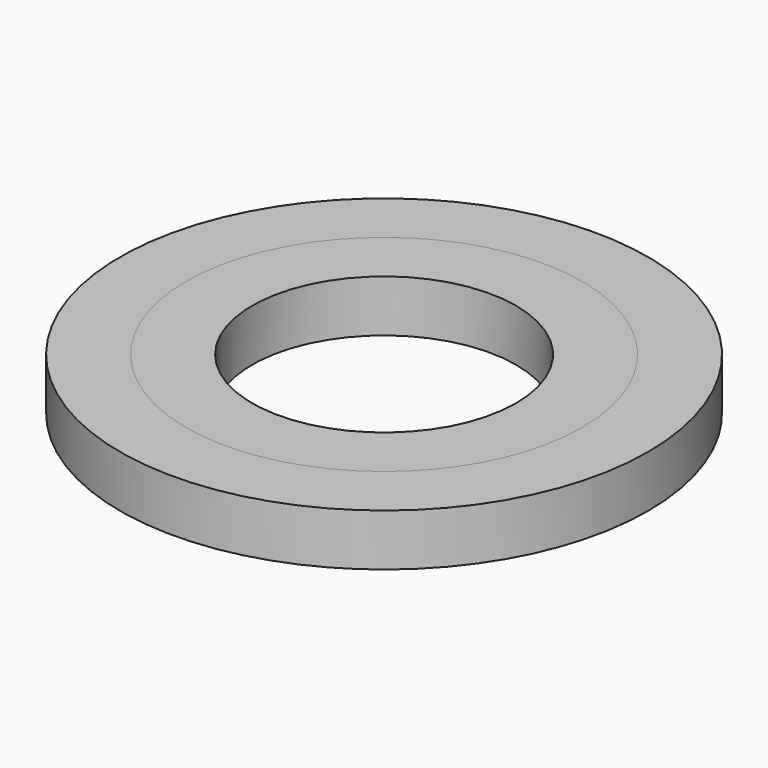
from build123d import *

# Parameters (mm, degrees)
F0_R     = 25.4
F0_R_2   = 19.05
F1_DEPTH = 5
F0_R_3   = 12.7
F2_DEPTH = 5


with BuildPart() as f1:
    # F0 (on Top) → F1 (new body)
    with BuildSketch(Plane.XY):
        Circle(F0_R)
        Circle(F0_R_2, mode=Mode.SUBTRACT)
    extrude(amount=F1_DEPTH)


with BuildPart() as f2:
    # F0 (on Top) → F2 (new body)
    with BuildSketch(Plane.XY):
        Circle(F0_R_2)
        Circle(F0_R_3, mode=Mode.SUBTRACT)
    extrude(amount=F2_DEPTH)


solid = Compound([f1.part, f2.part])
